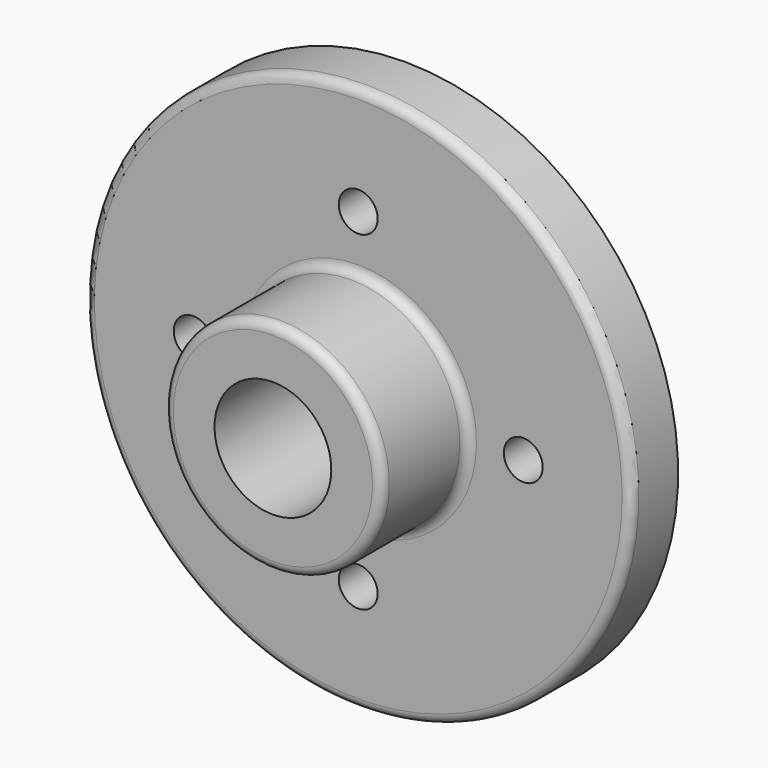
from build123d import *

# Parameters (mm, degrees)
F2_R     = 3.048
F3_R     = 6.35
F4_DEPTH = 53.849


with BuildPart() as f1:
    # F0 (on Right) → F1 (revolve)
    with BuildSketch(Plane.YZ):
        Polygon((-53.848, 19.05), (0, 19.05), (0, 89.154), (-19.05, 89.154), (-19.05, 35.553055), (-53.848, 35.553055), align=None)
    revolve(axis=Axis((0, -0.230861, 0), (0, -1, 0)))

    # F2
    f2_edges = [f1.edges().sort_by_distance(p)[0] for p in [
        (0, -19.05, -89.154),
        (0, -19.05, -35.553055),
        (0, -53.848, -35.553055),
    ]]
    fillet(f2_edges, radius=F2_R)

    # F3 (on Front) → F4 (cut, through all)
    with BuildSketch(Plane.XZ):
        with Locations((0, 53.848)):
            Circle(F3_R)
        with Locations((53.848, 0)):
            Circle(F3_R)
        with Locations((-53.848, 0)):
            Circle(F3_R)
        with Locations((0, -53.848)):
            Circle(F3_R)
    extrude(amount=F4_DEPTH, mode=Mode.SUBTRACT)


solid = f1.part
